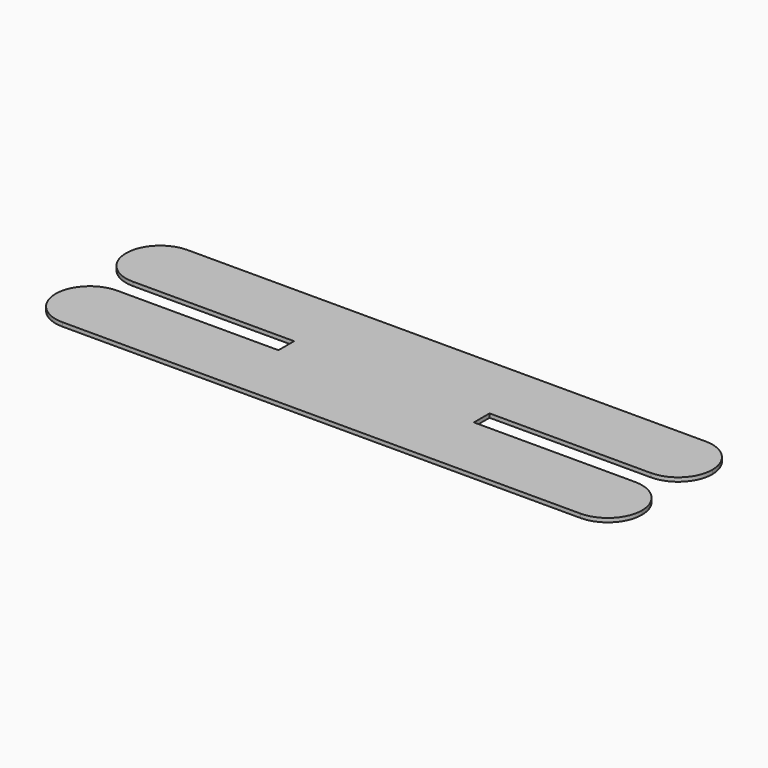
from build123d import *

# Parameters (mm, degrees)
F1_DEPTH = 0.2


with BuildPart() as f1:
    # F0 (on Top) → F1 (new body)
    with BuildSketch(Plane.XY):
        with BuildLine():
            ThreePointArc((15, 2.25), (14.487437, 3.487437), (13.25, 4))
            Line((13.25, 4), (-13.25, 4))
            ThreePointArc((-13.25, 4), (-14.487437, 3.487437), (-15, 2.25))
            ThreePointArc((-15, 2.25), (-14.487437, 1.012563), (-13.25, 0.5))
            Line((-13.25, 0.5), (-5, 0.5))
            Line((-5, 0.5), (-5, -0.5))
            Line((-5, -0.5), (-13.25, -0.5))
            ThreePointArc((-13.25, -0.5), (-14.487437, -1.012563), (-15, -2.25))
            ThreePointArc((-15, -2.25), (-14.487437, -3.487437), (-13.25, -4))
            Line((-13.25, -4), (13.25, -4))
            ThreePointArc((13.25, -4), (14.487437, -3.487437), (15, -2.25))
            ThreePointArc((15, -2.25), (14.487437, -1.012563), (13.25, -0.5))
            Line((13.25, -0.5), (5, -0.5))
            Line((5, -0.5), (5, 0.5))
            Line((5, 0.5), (13.25, 0.5))
            ThreePointArc((13.25, 0.5), (14.487437, 1.012563), (15, 2.25))
        make_face()
    extrude(amount=F1_DEPTH)


solid = f1.part
